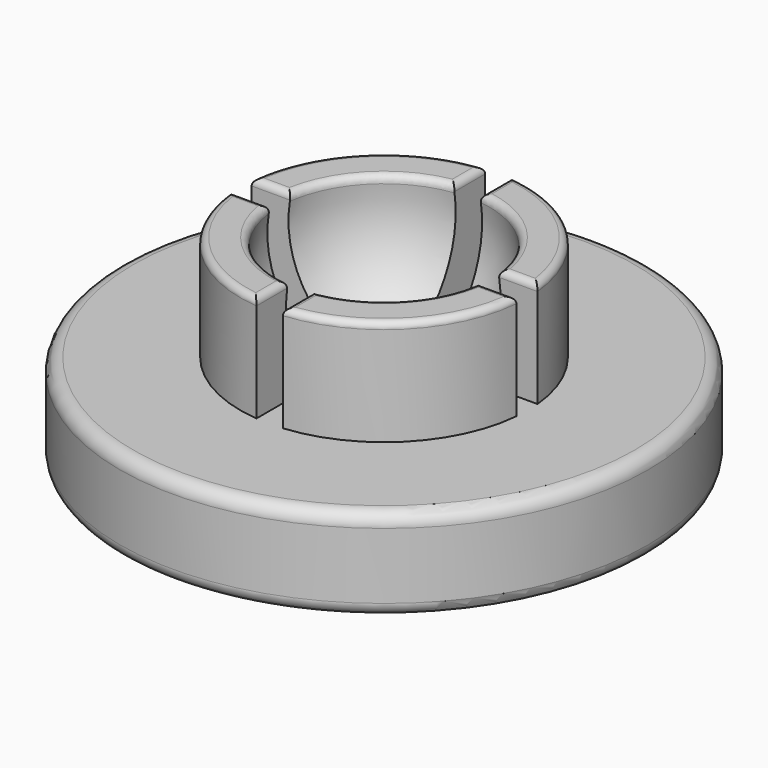
from build123d import *

# Parameters (mm, degrees)
F0_R          = 20
F1_DEPTH      = 15
F4_R          = 20
F4_R_2        = 10.874007874
F5_DEPTH      = 8
F6_W          = 2
F6_H          = 8
F7_DEPTH      = 20.001
F7_DEPTH_BACK = 20.001
F8_W          = 2
F8_H          = 8
F9_DEPTH      = 20.001
F9_DEPTH_BACK = 20.001
F10_R         = 0.5
F11_R         = 1


with BuildPart() as f1:
    # F0 (on Top) → F1 (new body)
    with BuildSketch(Plane.XY):
        Circle(F0_R)
    extrude(amount=F1_DEPTH)

    # F2 (on Front) → F3 (revolve, cut)
    with BuildSketch(Plane.XZ):
        with BuildLine():
            Line((0, 21.2), (0, 5))
            ThreePointArc((0, 5), (8.1, 13.1), (0, 21.2))
        make_face()
    revolve(axis=Axis((0, 0, 13.1), (0, 0, 1)), mode=Mode.SUBTRACT)

    # F4 (on face) → F5 (cut)
    with BuildSketch(Plane.XY.offset(15)):
        Circle(F4_R)
        Circle(F4_R_2, mode=Mode.SUBTRACT)
    extrude(amount=-F5_DEPTH, mode=Mode.SUBTRACT)

    # F6 (on Front) → F7 (cut, two sides)
    with BuildSketch(Plane.XZ) as f7_sk:
        with Locations((0, 11)):
            Rectangle(F6_W, F6_H)
    extrude(amount=-F7_DEPTH, mode=Mode.SUBTRACT)
    extrude(f7_sk.sketch, amount=F7_DEPTH_BACK, mode=Mode.SUBTRACT)

    # F8 (on Right) → F9 (cut, two sides)
    with BuildSketch(Plane.YZ) as f9_sk:
        with Locations((0, 11)):
            Rectangle(F8_W, F8_H)
    extrude(amount=-F9_DEPTH, mode=Mode.SUBTRACT)
    extrude(f9_sk.sketch, amount=F9_DEPTH_BACK, mode=Mode.SUBTRACT)

    # F10
    f10_edges = [f1.edges().sort_by_distance(p)[0] for p in [
        (-9.319089, -1, 15),
        (-5.567764, -5.567764, 15),
        (-1, -9.319089, 15),
        (-7.689085, -7.689085, 15),
        (-1, 9.319089, 15),
        (-5.567764, 5.567764, 15),
        (-9.319089, 1, 15),
        (-7.689085, 7.689085, 15),
        (1, -9.319089, 15),
        (5.567764, -5.567764, 15),
        (9.319089, -1, 15),
        (7.689085, -7.689085, 15),
        (9.319089, 1, 15),
        (5.567764, 5.567764, 15),
        (1, 9.319089, 15),
        (7.689085, 7.689085, 15),
    ]]
    fillet(f10_edges, radius=F10_R)

    # F11
    f11_edges = [f1.edges().sort_by_distance(p)[0] for p in [
        (-20, 0, 0),
        (20, 0, 3.5),
        (-20, 0, 7),
    ]]
    fillet(f11_edges, radius=F11_R)


solid = f1.part
